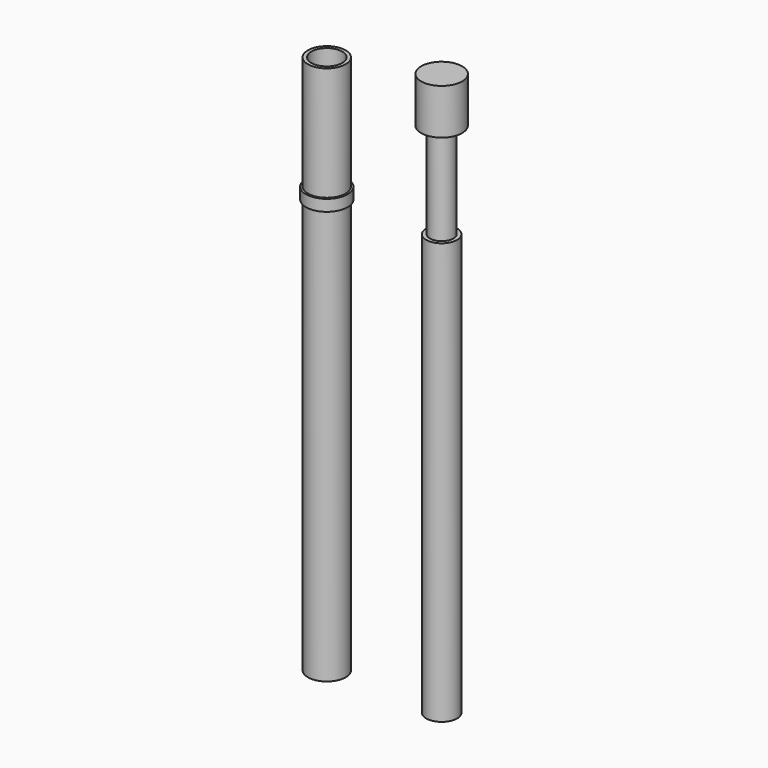
from build123d import *

# Parameters (mm, degrees)
F0_R     = 0.83
F0_R_2   = 0.68
F1_DEPTH = 23.7
F2_R     = 0.68
F3_DEPTH = 18.5
F4_R     = 0.515
F5_DEPTH = 4.2
F6_R     = 0.9
F7_DEPTH = 2
F8_W     = 0.915
F8_H     = 0.5


with BuildPart() as f1:
    # F0 (on Top) → F1 (new body)
    with BuildSketch(Plane.XY):
        Circle(F0_R)
        Circle(F0_R_2, mode=Mode.SUBTRACT)
    extrude(amount=F1_DEPTH)

    # F8 (on Front) → F9 (revolve)
    with BuildSketch(Plane.XZ):
        with Locations((-0.4575, 18.45)):
            Rectangle(F8_W, F8_H)
    revolve(axis=Axis((0, 0, 18.45), (0, 0, -1)))


with BuildPart() as f3:
    # F2 (on Top) → F3 (new body)
    with BuildSketch(Plane.XY):
        with Locations((5.042982, 0)):
            Circle(F2_R)
    extrude(amount=F3_DEPTH)

    # F4 (on face) → F5 (join)
    with BuildSketch(Plane.XY.offset(18.5)):
        with Locations((5.042982, 0)):
            Circle(F4_R)
    extrude(amount=F5_DEPTH)

    # F6 (on face) → F7 (join)
    with BuildSketch(Plane.XY.offset(22.7)):
        with Locations((5.042982, 0)):
            Circle(F6_R)
    extrude(amount=F7_DEPTH)


solid = Compound([f1.part, f3.part])
